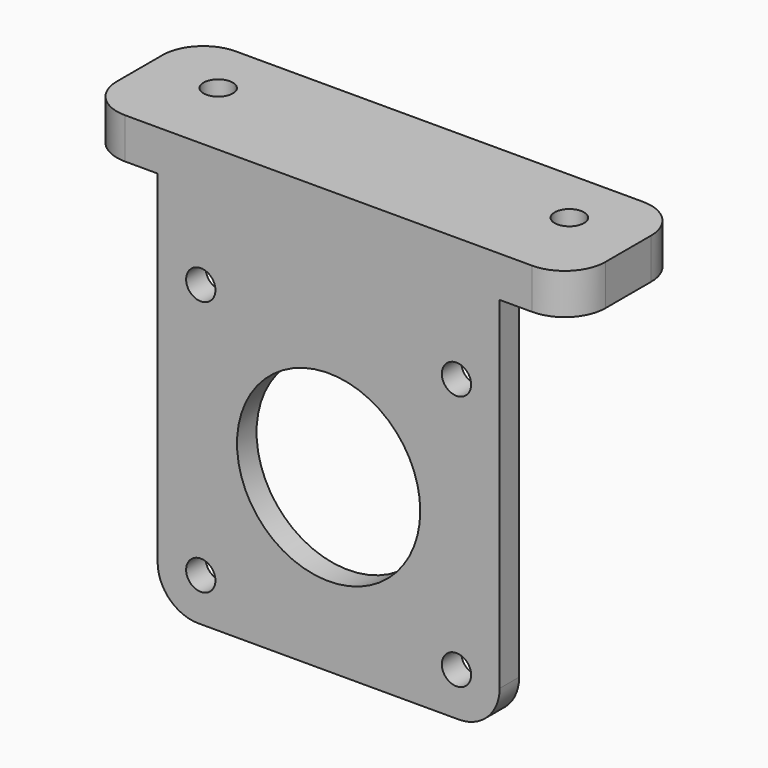
from build123d import *

# Parameters (mm, degrees)
F0_R     = 1.8
F0_R_2   = 11.25
F1_DEPTH = 3
F2_W     = 60
F2_H     = 5
F3_DEPTH = 17
F4_R     = 1.8
F5_DEPTH = 5.001
F6_R     = 5
F7_R     = 5


with BuildPart() as f1:
    # F0 (on Front) → F1 (new body)
    with BuildSketch(Plane.XZ):
        Polygon((-21, -21), (21, -21), (21, 21), (21, 31), (-21, 31), (-21, 21), align=None)
        with Locations((-15.7, -15.7)):
            Circle(F0_R, mode=Mode.SUBTRACT)
        with Locations((15.7, -15.7)):
            Circle(F0_R, mode=Mode.SUBTRACT)
        Circle(F0_R_2, mode=Mode.SUBTRACT)
        with Locations((-15.7, 15.7)):
            Circle(F0_R, mode=Mode.SUBTRACT)
        with Locations((15.7, 15.7)):
            Circle(F0_R, mode=Mode.SUBTRACT)
    extrude(amount=F1_DEPTH)

    # F2 (on face) → F3 (join)
    with BuildSketch(Plane.XZ.offset(3)):
        with Locations((0, 28.5)):
            Rectangle(F2_W, F2_H)
    extrude(amount=-F3_DEPTH)

    # F4 (on face) → F5 (cut, through all)
    with BuildSketch(Plane(origin=(0, 0, 26), x_dir=(1, 0, 0), z_dir=(0, 0, -1))):
        with Locations((-21.55957, -7)):
            Circle(F4_R)
        with Locations((21.55957, -7)):
            Circle(F4_R)
    extrude(amount=-F5_DEPTH, mode=Mode.SUBTRACT)

    # F6
    f6_edges = [f1.edges().sort_by_distance(p)[0] for p in [
        (21, -1.5, -21),
        (-21, -1.5, -21),
    ]]
    fillet(f6_edges, radius=F6_R)

    # F7
    f7_edges = [f1.edges().sort_by_distance(p)[0] for p in [
        (-30, -3, 28.5),
        (-30, 14, 28.5),
        (30, -3, 28.5),
        (30, 14, 28.5),
    ]]
    fillet(f7_edges, radius=F7_R)


solid = f1.part
